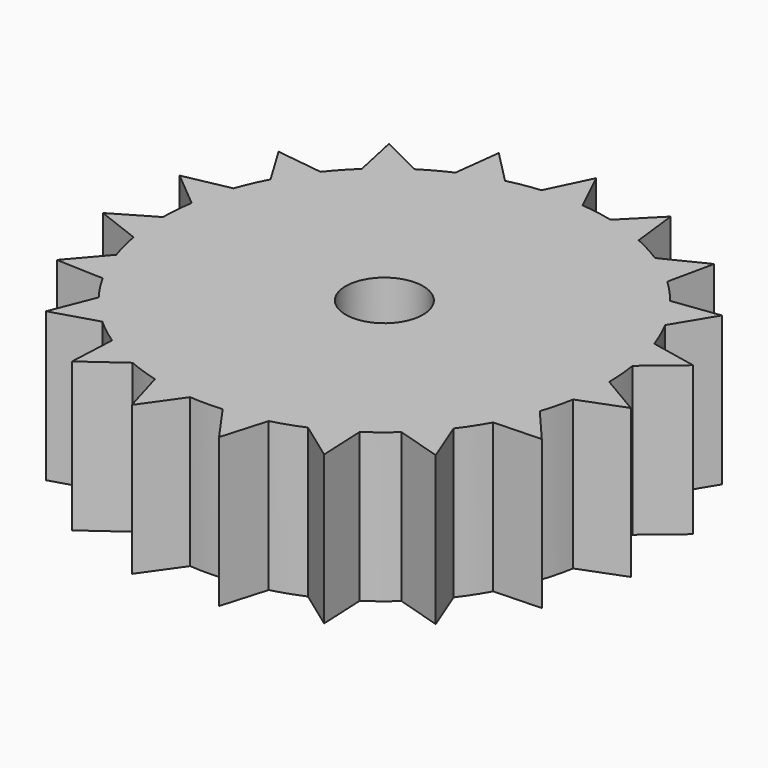
from build123d import *

# Parameters (mm, degrees)
F0_R     = 3.302
F1_DEPTH = 12.7


with BuildPart() as f1:
    # F0 (on Top) → F1 (new body)
    with BuildSketch(Plane.XY):
        with BuildLine():
            Line((20.702864, -9.081118), (17.445482, -7.652298))
            ThreePointArc((17.445482, -7.652298), (17.075406, -8.445887), (16.669253, -9.221632))
            Line((16.669253, -9.221632), (20.702864, -9.081118))
        make_face()
        with BuildLine():
            Line((-22.52976, -1.866869), (-18.984935, -1.573137))
            ThreePointArc((-18.984935, -1.573137), (-19.037169, -0.699059), (-19.049182, 0.176495))
            Line((-19.049182, 0.176495), (-22.52976, -1.866869))
        make_face()
        with BuildLine():
            Line((-22.52976, -1.866869), (-18.75876, -3.318344))
            ThreePointArc((-18.75876, -3.318344), (-18.892011, -2.448353), (-18.984935, -1.573137))
            Line((-18.984935, -1.573137), (-22.52976, -1.866869))
        make_face()
        with BuildLine():
            Line((3.720986, -22.298645), (3.135527, -18.790183))
            ThreePointArc((3.135527, -18.790183), (2.268748, -18.91442), (1.397176, -18.998695))
            Line((1.397176, -18.998695), (3.720986, -22.298645))
        make_face()
        with BuildLine():
            Line((20.702864, -9.081118), (18.077194, -6.009787))
            ThreePointArc((18.077194, -6.009787), (17.780315, -6.838341), (17.445482, -7.652298))
            Line((17.445482, -7.652298), (20.702864, -9.081118))
        make_face()
        with BuildLine():
            Line((-3.720986, -22.298645), (-3.135527, -18.790183))
            ThreePointArc((-3.135527, -18.790183), (-3.995681, -18.626246), (-4.847393, -18.422955))
            Line((-4.847393, -18.422955), (-3.720986, -22.298645))
        make_face()
        with BuildLine():
            Line((-20.702864, -9.081118), (-17.445482, -7.652298))
            ThreePointArc((-17.445482, -7.652298), (-17.778699, -6.842541), (-18.074353, -6.018327))
            Line((-18.074353, -6.018327), (-20.702864, -9.081118))
        make_face()
        with BuildLine():
            Line((22.52976, -1.866869), (18.984935, -1.573137))
            ThreePointArc((18.984935, -1.573137), (18.892588, -2.44389), (18.760326, -3.309481))
            Line((18.760326, -3.309481), (22.52976, -1.866869))
        make_face()
        with BuildLine():
            Line((3.720986, -22.298645), (4.856096, -18.420663))
            ThreePointArc((4.856096, -18.420663), (4.000081, -18.625301), (3.135527, -18.790183))
            Line((3.135527, -18.790183), (3.720986, -22.298645))
        make_face()
        with BuildLine():
            Line((-3.720986, -22.298645), (-1.3882, -18.999353))
            ThreePointArc((-1.3882, -18.999353), (-2.26428, -18.914955), (-3.135527, -18.790183))
            Line((-3.135527, -18.790183), (-3.720986, -22.298645))
        make_face()
        with BuildLine():
            ThreePointArc((19.049097, 0.185495), (19.049774, 0.092749), (19.05, 0))
            ThreePointArc((19.05, 0), (19.033727, -0.787241), (18.984935, -1.573137))
            Line((18.984935, -1.573137), (22.52976, -1.866869))
            Line((22.52976, -1.866869), (19.049097, 0.185495))
        make_face()
        with BuildLine():
            Line((-20.702864, -9.081118), (-16.664895, -9.229506))
            ThreePointArc((-16.664895, -9.229506), (-17.07341, -8.44992), (-17.445482, -7.652298))
            Line((-17.445482, -7.652298), (-20.702864, -9.081118))
        make_face()
        with BuildLine():
            ThreePointArc((-15.948021, 10.419362), (-15.452372, 11.141216), (-14.924076, 11.83953))
            Line((-14.924076, 11.83953), (-18.925801, 12.364843))
            Line((-18.925801, 12.364843), (-15.948021, 10.419362))
        make_face()
        with BuildLine():
            ThreePointArc((-11.700752, 15.033127), (-10.997573, 15.554931), (-10.271159, 16.043871))
            Line((-10.271159, 16.043871), (-13.885491, 17.840079))
            Line((-13.885491, 17.840079), (-11.700752, 15.033127))
        make_face()
        with BuildLine():
            ThreePointArc((-16.841467, 8.90323), (-16.412261, 9.671618), (-15.948021, 10.419362))
            Line((-15.948021, 10.419362), (-18.925801, 12.364843))
            Line((-18.925801, 12.364843), (-16.841467, 8.90323))
        make_face()
        with BuildLine():
            ThreePointArc((-13.038076, 13.889243), (-12.38263, 14.476636), (-11.700752, 15.033127))
            Line((-11.700752, 15.033127), (-13.885491, 17.840079))
            Line((-13.885491, 17.840079), (-13.038076, 13.889243))
        make_face()
        with BuildLine():
            ThreePointArc((18.467075, 4.676499), (18.662466, 3.82294), (18.818427, 2.961304))
            Line((18.818427, 2.961304), (21.915207, 5.549684))
            Line((21.915207, 5.549684), (18.467075, 4.676499))
        make_face()
        with BuildLine():
            ThreePointArc((17.956734, 6.360676), (18.231363, 5.524484), (18.467075, 4.676499))
            Line((18.467075, 4.676499), (21.915207, 5.549684))
            Line((21.915207, 5.549684), (17.956734, 6.360676))
        make_face()
        with BuildLine():
            ThreePointArc((15.948021, 10.419362), (16.409975, 9.675495), (16.837258, 8.911186))
            Line((16.837258, 8.911186), (18.925801, 12.364843))
            Line((18.925801, 12.364843), (15.948021, 10.419362))
        make_face()
        with BuildLine():
            ThreePointArc((14.91848, 11.846579), (15.44974, 11.144866), (15.948021, 10.419362))
            Line((15.948021, 10.419362), (18.925801, 12.364843))
            Line((18.925801, 12.364843), (14.91848, 11.846579))
        make_face()
        with BuildLine():
            ThreePointArc((11.700752, 15.033127), (12.37921, 14.47956), (13.031512, 13.895402))
            Line((13.031512, 13.895402), (13.885491, 17.840079))
            Line((13.885491, 17.840079), (11.700752, 15.033127))
        make_face()
        with BuildLine():
            ThreePointArc((10.263578, 16.048722), (10.993899, 15.557528), (11.700752, 15.033127))
            Line((11.700752, 15.033127), (13.885491, 17.840079))
            Line((13.885491, 17.840079), (10.263578, 16.048722))
        make_face()
        with BuildLine():
            ThreePointArc((6.185525, 18.017818), (7.006964, 17.714541), (7.813599, 17.373836))
            Line((7.813599, 17.373836), (7.340473, 21.382066))
            Line((7.340473, 21.382066), (6.185525, 18.017818))
        make_face()
        with BuildLine():
            ThreePointArc((4.496458, 18.511736), (5.346698, 18.284292), (6.185525, 18.017818))
            Line((6.185525, 18.017818), (7.340473, 21.382066))
            Line((7.340473, 21.382066), (4.496458, 18.511736))
        make_face()
        with BuildLine():
            ThreePointArc((0, 19.05), (0.875406, 19.029876), (1.748962, 18.969545))
            Line((1.748962, 18.969545), (0, 22.606974))
            Line((0, 22.606974), (0, 19.05))
        make_face()
        with BuildLine():
            ThreePointArc((-1.757924, 18.968716), (-0.879901, 19.029668), (0, 19.05))
            Line((0, 19.05), (0, 22.606974))
            Line((0, 22.606974), (-1.757924, 18.968716))
        make_face()
        with BuildLine():
            ThreePointArc((-6.185525, 18.017818), (-5.351017, 18.283028), (-4.505203, 18.50961))
            Line((-4.505203, 18.50961), (-7.340473, 21.382066))
            Line((-7.340473, 21.382066), (-6.185525, 18.017818))
        make_face()
        with BuildLine():
            ThreePointArc((-7.821807, 17.370142), (-7.011149, 17.712885), (-6.185525, 18.017818))
            Line((-6.185525, 18.017818), (-7.340473, 21.382066))
            Line((-7.340473, 21.382066), (-7.821807, 17.370142))
        make_face()
        with BuildLine():
            Line((-16.632492, -15.311287), (-14.01554, -12.902214))
            ThreePointArc((-14.01554, -12.902214), (-14.593631, -12.244527), (-15.140887, -11.56097))
            Line((-15.140887, -11.56097), (-16.632492, -15.311287))
        make_face()
        with BuildLine():
            ThreePointArc((-18.467075, 4.676499), (-18.232667, 5.520177), (-17.959737, 6.352192))
            Line((-17.959737, 6.352192), (-21.915207, 5.549684))
            Line((-21.915207, 5.549684), (-18.467075, 4.676499))
        make_face()
        with BuildLine():
            Line((16.632492, -15.311287), (14.01554, -12.902214))
            ThreePointArc((14.01554, -12.902214), (13.407838, -13.532641), (12.771808, -14.134476))
            Line((12.771808, -14.134476), (16.632492, -15.311287))
        make_face()
        with BuildLine():
            Line((-16.632492, -15.311287), (-12.765129, -14.140509))
            ThreePointArc((-12.765129, -14.140509), (-13.404641, -13.535808), (-14.01554, -12.902214))
            Line((-14.01554, -12.902214), (-16.632492, -15.311287))
        make_face()
        with BuildLine():
            ThreePointArc((-18.819824, 2.952413), (-18.663368, 3.818531), (-18.467075, 4.676499))
            Line((-18.467075, 4.676499), (-21.915207, 5.549684))
            Line((-21.915207, 5.549684), (-18.819824, 2.952413))
        make_face()
        with BuildLine():
            Line((16.632492, -15.311287), (15.146348, -11.553816))
            ThreePointArc((15.146348, -11.553816), (14.596523, -12.241079), (14.01554, -12.902214))
            Line((14.01554, -12.902214), (16.632492, -15.311287))
        make_face()
        with BuildLine():
            ThreePointArc((18.984935, -1.573137), (19.033727, -0.787241), (19.05, 0))
            ThreePointArc((19.05, 0), (19.049774, 0.092749), (19.049097, 0.185495))
            ThreePointArc((19.049097, 0.185495), (18.984562, 1.577621), (18.818427, 2.961304))
            ThreePointArc((18.818427, 2.961304), (18.662466, 3.82294), (18.467075, 4.676499))
            ThreePointArc((18.467075, 4.676499), (18.231363, 5.524484), (17.956734, 6.360676))
            ThreePointArc((17.956734, 6.360676), (17.443674, 7.656419), (16.837258, 8.911186))
            ThreePointArc((16.837258, 8.911186), (16.409975, 9.675495), (15.948021, 10.419362))
            ThreePointArc((15.948021, 10.419362), (15.44974, 11.144866), (14.91848, 11.846579))
            ThreePointArc((14.91848, 11.846579), (14.012492, 12.905524), (13.031512, 13.895402))
            ThreePointArc((13.031512, 13.895402), (12.37921, 14.47956), (11.700752, 15.033127))
            ThreePointArc((11.700752, 15.033127), (10.993899, 15.557528), (10.263578, 16.048722))
            ThreePointArc((10.263578, 16.048722), (9.06284, 16.756116), (7.813599, 17.373836))
            ThreePointArc((7.813599, 17.373836), (7.006964, 17.714541), (6.185525, 18.017818))
            ThreePointArc((6.185525, 18.017818), (5.346698, 18.284292), (4.496458, 18.511736))
            ThreePointArc((4.496458, 18.511736), (3.131088, 18.790923), (1.748962, 18.969545))
            ThreePointArc((1.748962, 18.969545), (0.875406, 19.029876), (0, 19.05))
            ThreePointArc((0, 19.05), (-0.879901, 19.029668), (-1.757924, 18.968716))
            ThreePointArc((-1.757924, 18.968716), (-3.139966, 18.789442), (-4.505203, 18.50961))
            ThreePointArc((-4.505203, 18.50961), (-5.351017, 18.283028), (-6.185525, 18.017818))
            ThreePointArc((-6.185525, 18.017818), (-7.011149, 17.712885), (-7.821807, 17.370142))
            ThreePointArc((-7.821807, 17.370142), (-9.070755, 16.751833), (-10.271159, 16.043871))
            ThreePointArc((-10.271159, 16.043871), (-10.997573, 15.554931), (-11.700752, 15.033127))
            ThreePointArc((-11.700752, 15.033127), (-12.38263, 14.476636), (-13.038076, 13.889243))
            ThreePointArc((-13.038076, 13.889243), (-14.018588, 12.898903), (-14.924076, 11.83953))
            ThreePointArc((-14.924076, 11.83953), (-15.452372, 11.141216), (-15.948021, 10.419362))
            ThreePointArc((-15.948021, 10.419362), (-16.412261, 9.671618), (-16.841467, 8.90323))
            ThreePointArc((-16.841467, 8.90323), (-17.447289, 7.648177), (-17.959737, 6.352192))
            ThreePointArc((-17.959737, 6.352192), (-18.232667, 5.520177), (-18.467075, 4.676499))
            ThreePointArc((-18.467075, 4.676499), (-18.663368, 3.818531), (-18.819824, 2.952413))
            ThreePointArc((-18.819824, 2.952413), (-18.985306, 1.568652), (-19.049182, 0.176495))
            ThreePointArc((-19.049182, 0.176495), (-19.037169, -0.699059), (-18.984935, -1.573137))
            ThreePointArc((-18.984935, -1.573137), (-18.892011, -2.448353), (-18.75876, -3.318344))
            ThreePointArc((-18.75876, -3.318344), (-18.46597, -4.680861), (-18.074353, -6.018327))
            ThreePointArc((-18.074353, -6.018327), (-17.778699, -6.842541), (-17.445482, -7.652298))
            ThreePointArc((-17.445482, -7.652298), (-17.07341, -8.44992), (-16.664895, -9.229506))
            ThreePointArc((-16.664895, -9.229506), (-15.94556, -10.423129), (-15.140887, -11.56097))
            ThreePointArc((-15.140887, -11.56097), (-14.593631, -12.244527), (-14.01554, -12.902214))
            ThreePointArc((-14.01554, -12.902214), (-13.404641, -13.535808), (-12.765129, -14.140509))
            ThreePointArc((-12.765129, -14.140509), (-11.697201, -15.03589), (-10.566671, -15.850803))
            ThreePointArc((-10.566671, -15.850803), (-9.827116, -16.319629), (-9.066798, -16.753975))
            ThreePointArc((-9.066798, -16.753975), (-8.283271, -17.15488), (-7.482063, -17.519167))
            ThreePointArc((-7.482063, -17.519167), (-6.181268, -18.019279), (-4.847393, -18.422955))
            ThreePointArc((-4.847393, -18.422955), (-3.995681, -18.626246), (-3.135527, -18.790183))
            ThreePointArc((-3.135527, -18.790183), (-2.26428, -18.914955), (-1.3882, -18.999353))
            ThreePointArc((-1.3882, -18.999353), (0.0045, -19.049999), (1.397176, -18.998695))
            ThreePointArc((1.397176, -18.998695), (2.268748, -18.91442), (3.135527, -18.790183))
            ThreePointArc((3.135527, -18.790183), (4.000081, -18.625301), (4.856096, -18.420663))
            ThreePointArc((4.856096, -18.420663), (6.189781, -18.016357), (7.49034, -17.515631))
            ThreePointArc((7.49034, -17.515631), (8.287323, -17.152923), (9.066798, -16.753975))
            ThreePointArc((9.066798, -16.753975), (9.830971, -16.317307), (10.574159, -15.845809))
            ThreePointArc((10.574159, -15.845809), (11.704303, -15.030362), (12.771808, -14.134476))
            ThreePointArc((12.771808, -14.134476), (13.407838, -13.532641), (14.01554, -12.902214))
            ThreePointArc((14.01554, -12.902214), (14.596523, -12.241079), (15.146348, -11.553816))
            ThreePointArc((15.146348, -11.553816), (15.950482, -10.415595), (16.669253, -9.221632))
            ThreePointArc((16.669253, -9.221632), (17.075406, -8.445887), (17.445482, -7.652298))
            ThreePointArc((17.445482, -7.652298), (17.780315, -6.838341), (18.077194, -6.009787))
            ThreePointArc((18.077194, -6.009787), (18.468179, -4.672136), (18.760326, -3.309481))
            ThreePointArc((18.760326, -3.309481), (18.892588, -2.44389), (18.984935, -1.573137))
        make_face()
        Circle(F0_R, mode=Mode.SUBTRACT)
        with BuildLine():
            Line((-10.759731, -19.882241), (-7.482063, -17.519167))
            ThreePointArc((-7.482063, -17.519167), (-8.283271, -17.15488), (-9.066798, -16.753975))
            Line((-9.066798, -16.753975), (-10.759731, -19.882241))
        make_face()
        with BuildLine():
            Line((-10.759731, -19.882241), (-9.066798, -16.753975))
            ThreePointArc((-9.066798, -16.753975), (-9.827116, -16.319629), (-10.566671, -15.850803))
            Line((-10.566671, -15.850803), (-10.759731, -19.882241))
        make_face()
        with BuildLine():
            Line((10.759731, -19.882241), (10.574159, -15.845809))
            ThreePointArc((10.574159, -15.845809), (9.830971, -16.317307), (9.066798, -16.753975))
            Line((9.066798, -16.753975), (10.759731, -19.882241))
        make_face()
        with BuildLine():
            Line((10.759731, -19.882241), (9.066798, -16.753975))
            ThreePointArc((9.066798, -16.753975), (8.287323, -17.152923), (7.49034, -17.515631))
            Line((7.49034, -17.515631), (10.759731, -19.882241))
        make_face()
    extrude(amount=F1_DEPTH)


solid = f1.part
